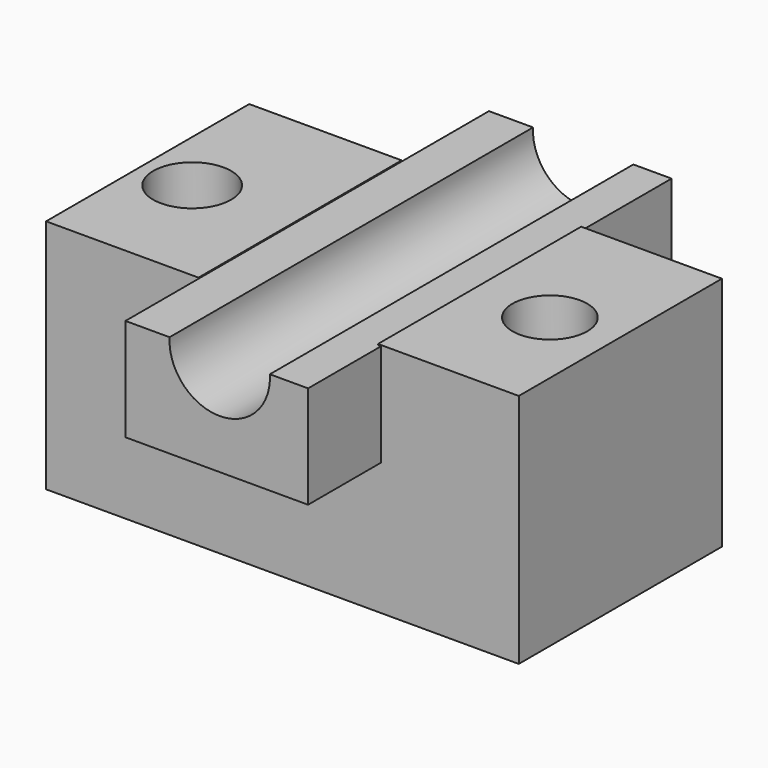
from build123d import *

# Parameters (mm, degrees)
F0_W     = 116.026688
F0_H     = 62.326629
F1_DEPTH = 57.912
F2_R     = 9.178943
F2_R_2   = 9.568462
F3_DEPTH = 25.4
F4_W     = 44.070687
F4_H     = 119.394876
F5_DEPTH = 25.4
F6_W     = 44.824161
F6_H     = 111.522015
F7_DEPTH = 25.146
F9_DEPTH = 139.446


with BuildPart() as f1:
    # F0 (on Top) → F1 (new body)
    with BuildSketch(Plane.XY):
        with Locations((1.10502, 2.008145)):
            Rectangle(F0_W, F0_H)
    extrude(amount=F1_DEPTH)

    # F2 (on face) → F3 (cut)
    with BuildSketch(Plane.XY.offset(57.912)):
        with Locations((43.431606, 0)):
            Circle(F2_R)
        with Locations((-44.370782, 0)):
            Circle(F2_R_2)
    extrude(amount=-F3_DEPTH, mode=Mode.SUBTRACT)

    # F4 (on face) → F5 (cut)
    with BuildSketch(Plane.XY.offset(57.912)):
        with Locations((2.529694, -0.217967)):
            Rectangle(F4_W, F4_H)
    extrude(amount=-F5_DEPTH, mode=Mode.SUBTRACT)

    # F6 (on face) → F7 (join)
    with BuildSketch(Plane.XY.offset(32.512)):
        with Locations((2.90643, 4.208925)):
            Rectangle(F6_W, F6_H)
    extrude(amount=F7_DEPTH)

    # F8 (on face) → F9 (cut)
    with BuildSketch(Plane.XZ.offset(51.552083)):
        with BuildLine():
            Line((15.938878, 57.658), (-8.679586, 57.658))
            ThreePointArc((-8.679586, 57.658), (3.629646, 44.618661), (15.938878, 57.658))
        make_face()
    extrude(amount=-F9_DEPTH, mode=Mode.SUBTRACT)


solid = f1.part
